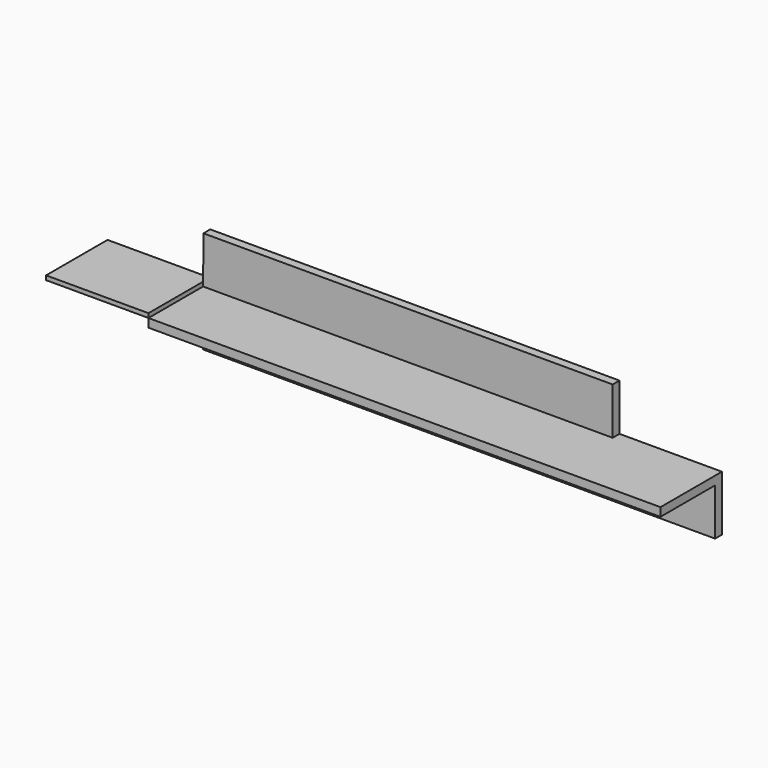
from build123d import *

# Parameters (mm, degrees)
F1_DEPTH = 3.175
F2_W     = 190.5
F2_H     = 1.5875
F3_DEPTH = 25.4
F4_W     = 28.575
F4_H     = 1.5875
F5_DEPTH = 38.1
F6_W     = 38.1
F6_H     = 17.4625
F7_DEPTH = 25.4


with BuildPart() as f1:
    # F0 (on Front) → F1 (new body)
    with BuildSketch(Plane.XZ):
        Polygon((-95.25, -19.05), (95.25, -19.05), (95.25, 0), (0, 0), (-95.25, 0), align=None)
        Polygon((0, 0), (95.25, 0), (95.25, 19.05), (-57.02388, 19.05), (-95.12388, 19.05), (-95.25, 0), align=None)
    extrude(amount=F1_DEPTH)

    # F2 (on face) → F3 (join)
    with BuildSketch(Plane.XZ.offset(3.175)):
        with Locations((0, 0.79375)):
            Rectangle(F2_W, F2_H)
        with Locations((0, -0.79375)):
            Rectangle(F2_W, F2_H)
    extrude(amount=F3_DEPTH)

    # F4 (on face) → F5 (join)
    with BuildSketch(Plane(origin=(-95.25, 0, 0), x_dir=(0, -1, 0), z_dir=(-1, 0, 0))):
        with Locations((14.2875, 2.38125)):
            Rectangle(F4_W, F4_H)
    extrude(amount=F5_DEPTH)

    # F6 (on face) → F7 (cut)
    with BuildSketch(Plane.XZ.offset(3.175)):
        with Locations((76.2, 10.31875)):
            Rectangle(F6_W, F6_H)
    extrude(amount=-F7_DEPTH, mode=Mode.SUBTRACT)


solid = f1.part
